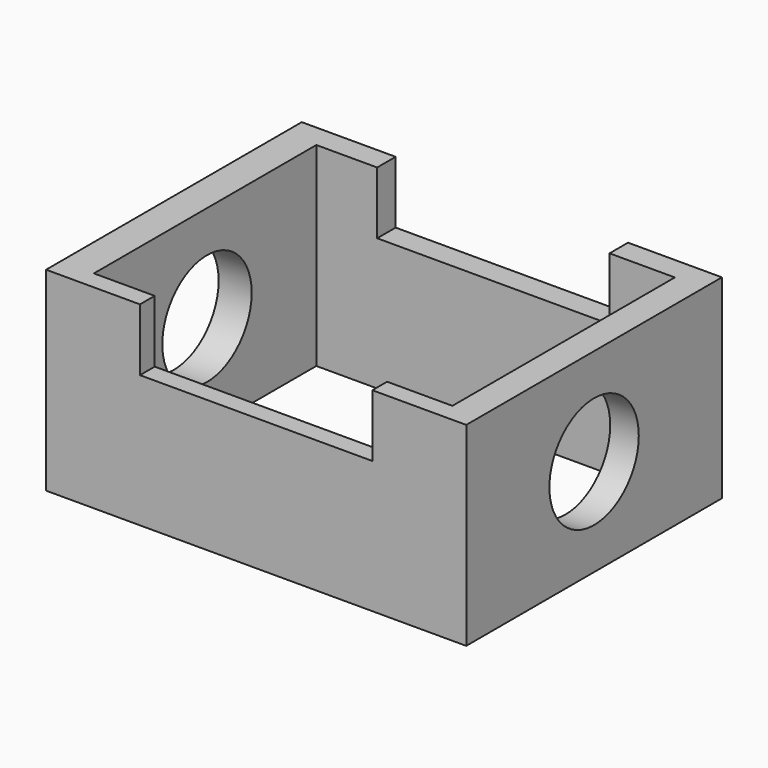
from build123d import *

# Parameters (mm, degrees)
F0_W     = 205.173201859
F0_H     = 156.0566946864
F1_DEPTH = 94.996
F2_W     = 175.066800788
F2_H     = 135.7703600079
F3_DEPTH = 115.57
F4_R     = 27.2832059301
F5_DEPTH = 205.174201859
F6_W     = 113.4773865342
F6_H     = 60.8573002977
F7_DEPTH = 156.0576946864


with BuildPart() as f1:
    # F0 (on Top) → F1 (new body)
    with BuildSketch(Plane.XY):
        with Locations((10.3972144425, -9.1738365591)):
            Rectangle(F0_W, F0_H)
    extrude(amount=F1_DEPTH)

    # F2 (on face) → F3 (cut)
    with BuildSketch(Plane.XY.offset(94.996)):
        with Locations((11.4888912067, -10.3168571368)):
            Rectangle(F2_W, F2_H)
    extrude(amount=-F3_DEPTH, mode=Mode.SUBTRACT)

    # F4 (on face) → F5 (cut, through all)
    with BuildSketch(Plane.YZ.offset(112.983815372)):
        with Locations((-9.1738365591, 47.498)):
            Circle(F4_R)
    extrude(amount=-F5_DEPTH, mode=Mode.SUBTRACT)

    # F6 (on face) → F7 (cut, through all)
    with BuildSketch(Plane.XZ.offset(87.2021839023)):
        with Locations((10.3972144425, 94.996)):
            Rectangle(F6_W, F6_H)
    extrude(amount=-F7_DEPTH, mode=Mode.SUBTRACT)


solid = f1.part
